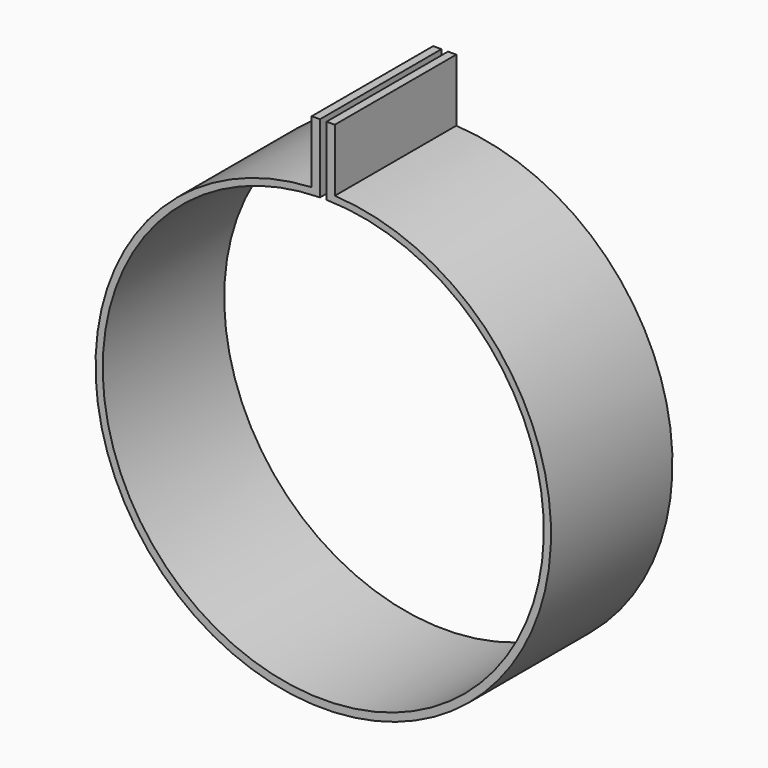
from build123d import *

# Parameters (mm, degrees)
F1_DEPTH = 12.7


with BuildPart() as f1:
    # F0 (on Front) → F1 (new body)
    with BuildSketch(Plane.XZ):
        with BuildLine():
            Line((-0.274845, 37.548666), (-0.274845, 43.30881))
            Line((-0.274845, 43.30881), (-0.965426, 43.30881))
            Line((-0.965426, 43.30881), (-0.965426, 38.075521))
            ThreePointArc((-0.965426, 38.075521), (0, 0), (0.965426, 38.075521))
            Line((0.965426, 38.075521), (0.965426, 43.30881))
            Line((0.965426, 43.30881), (0.274845, 43.30881))
            Line((0.274845, 43.30881), (0.274845, 37.548666))
            ThreePointArc((0.274845, 37.548666), (0, 0.655783), (-0.274845, 37.548666))
        make_face()
    extrude(amount=-F1_DEPTH)


solid = f1.part
